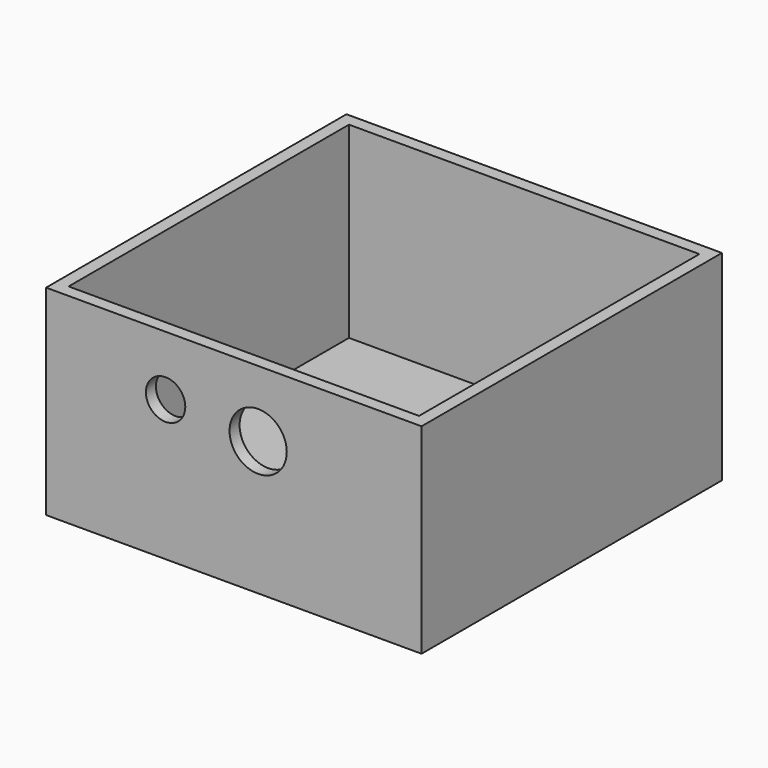
from build123d import *

# Parameters (mm, degrees)
F0_W     = 150
F0_H     = 150
F1_DEPTH = 80
F2_T     = -5
F3_R     = 7.863992
F3_R_2   = 11.429543
F4_DEPTH = 25


with BuildPart() as f1:
    # F0 (on Top) → F1 (new body)
    with BuildSketch(Plane.XY):
        Rectangle(F0_W, F0_H)
    extrude(amount=F1_DEPTH)

    # F2
    f2_openings = [f1.faces().sort_by_distance(p)[0] for p in [
        (0, 0, 80),
    ]]
    offset(amount=F2_T, openings=f2_openings)

    # F3 (on face) → F4 (cut)
    with BuildSketch(Plane.XZ.offset(75)):
        with Locations((-27.252719, 56.159835)):
            Circle(F3_R)
        with Locations((9.724549, 53.455554)):
            Circle(F3_R_2)
    extrude(amount=-F4_DEPTH, mode=Mode.SUBTRACT)


solid = f1.part
